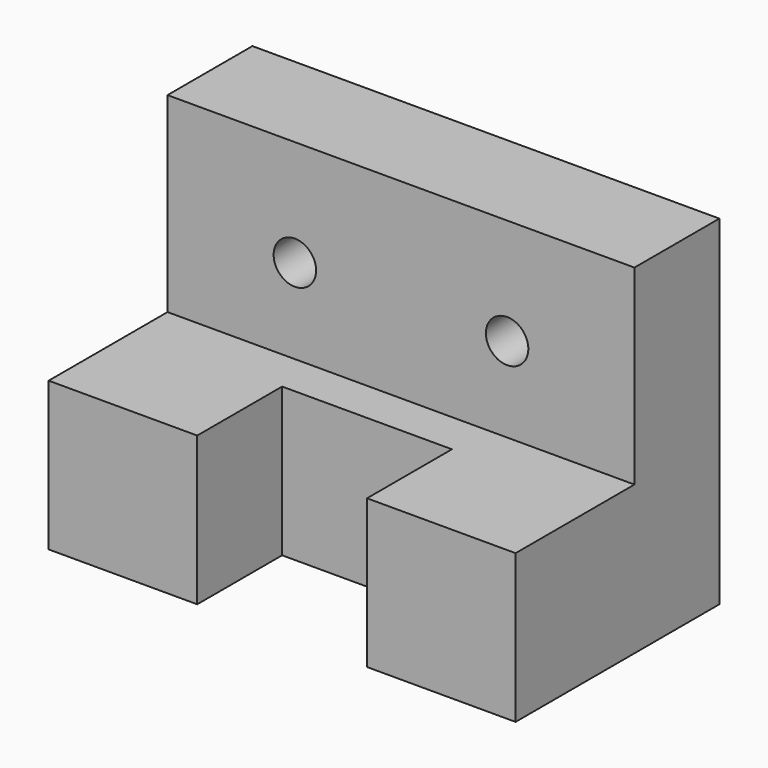
from build123d import *

# Parameters (mm, degrees)
F0_W           = 2794
F0_H           = 2032
F0_R           = 127
F1_DEPTH       = 635
F2_D           = 254
F2_CBORE_D     = 381
F2_CBORE_DEPTH = 254
F4_DEPTH       = 889


with BuildPart() as f1:
    # F0 (on Front) → F1 (new body)
    with BuildSketch(Plane.XZ):
        with Locations((1397, 1016)):
            Rectangle(F0_W, F0_H)
        with Locations((762, 1397)):
            Circle(F0_R, mode=Mode.SUBTRACT)
        with Locations((2032, 1397)):
            Circle(F0_R, mode=Mode.SUBTRACT)
        with Locations((762, 1397)):
            Circle(F0_R)
        with Locations((2032, 1397)):
            Circle(F0_R)
    extrude(amount=F1_DEPTH)

    # F2 (through all)
    with Locations(Plane(origin=(0, 0, 0), x_dir=(1, 0, 0), z_dir=(0, 1, 0))):
        with Locations((2032, -1397), (762, -1397)):
            CounterBoreHole(F2_D / 2, F2_CBORE_D / 2, F2_CBORE_DEPTH)

    # F3 (on face) → F4 (join)
    with BuildSketch(Plane(origin=(0, 0, 0), x_dir=(1, 0, 0), z_dir=(0, 0, -1))):
        Polygon((0, 1524), (0, 635), (2794, 635), (2794, 1524), (1905, 1524), (1905, 889), (889, 889), (889, 1524), align=None)
    extrude(amount=-F4_DEPTH)


solid = f1.part
